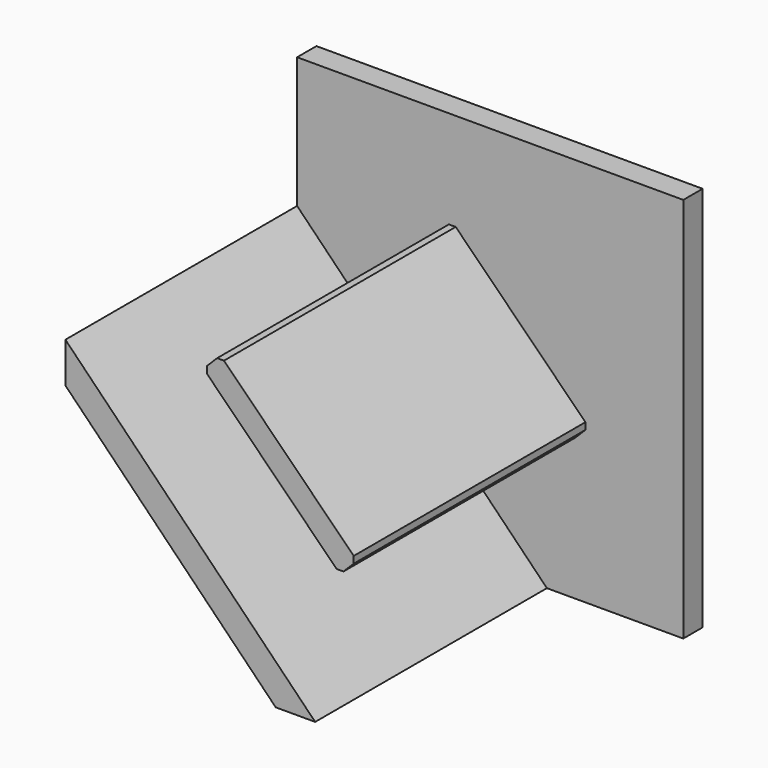
from build123d import *

# Parameters (mm, degrees)
F1_DEPTH = 25
F2_DEPTH = 325
F3_DEPTH = 325
F4_SIZE  = 5


with BuildPart() as f1:
    # F0 (on Front) → F1 (new body)
    with BuildSketch(Plane.XZ):
        Polygon((136.4967631549, 325.8810894129), (-263.5032368451, 325.8810894129), (-263.5032368451, 190.3028462152), (-4.7845391905, -74.1189105871), (136.4967631549, -74.1189105871), (136.4967631549, -51.7552420497), align=None)
        Polygon((-102.7711352796, 228.1239825229), (38.6502209577, 86.7026262856), (20.972551428, 69.0249567559), (-120.4488048093, 210.4463129933), align=None, mode=Mode.SUBTRACT)
    extrude(amount=F1_DEPTH)

    # F0 (on Front) → F3 (join)
    with BuildSketch(Plane.XZ):
        Polygon((20.972551428, 69.0249567559), (38.6502209577, 86.7026262856), (-102.7711352796, 228.1239825229), (-120.4488048093, 210.4463129933), align=None)
    extrude(amount=F3_DEPTH)

    # F4
    f4_edges = [f1.edges().sort_by_distance(p)[0] for p in [
        (38.650221, -175, 86.702626),
        (20.972551, -175, 69.024957),
        (-102.771135, -175, 228.123983),
        (-120.448805, -175, 210.446313),
    ]]
    chamfer(f4_edges, length=F4_SIZE)


with BuildPart() as f1b:
    # F0 (on Front) → F1, piece 2 (new body)
    with BuildSketch(Plane.XZ):
        Polygon((-152.1320251086, 34.7065203477), (-263.5032368451, 148.5327406076), (-263.5032368451, -74.1189105871), (-45.6537454706, -74.1189105871), align=None)
    extrude(amount=F1_DEPTH)


with BuildPart() as f2:
    # F0 (on Front) → F2 (new body)
    with BuildSketch(Plane.XZ):
        Polygon((-4.7845391905, -74.1189105871), (-263.5032368451, 190.3028462152), (-263.5032368451, 148.5327406076), (-152.1320251086, 34.7065203477), (-45.6537454706, -74.1189105871), align=None)
    extrude(amount=F2_DEPTH)


solid = Compound([f1.part, f1b.part, f2.part])
